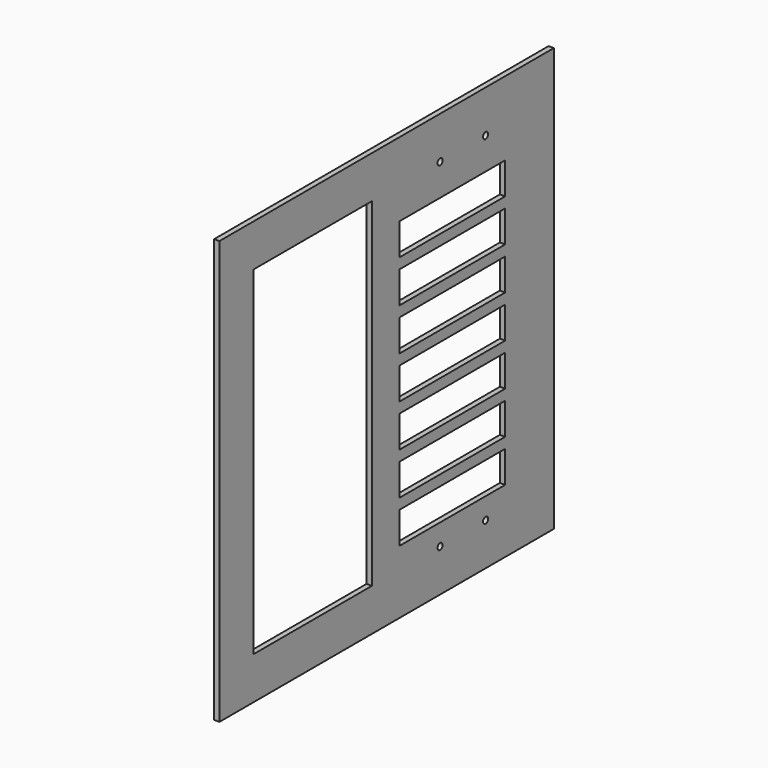
from build123d import *

# Parameters (mm, degrees)
SKETCH001_W              = 501.65
SKETCH001_H              = 508
SKETCH001_R              = 3.81
SKETCH001_W_2            = 177.8
SKETCH001_H_2            = 406.4
PAD007_DEPTH             = 6.35
SKETCH005_W              = 158.75
SKETCH005_H              = 38.1
POCKET_DEPTH             = 6.35
LINEARPATTERN_COUNT      = 7
LINEARPATTERN_PITCH      = 50.8
CLONE070_PLACEMENT_ANGLE = 180


with BuildPart() as part:
    # Sketch001 → Pad007 (new body)
    with BuildSketch(Plane(origin=(914.4, 1422.4, 914.4), x_dir=(0, 1, 0), z_dir=(-1, 0, 0))):
        Rectangle(SKETCH001_W, SKETCH001_H)
        with Locations((80.16875, 203.2)):
            Circle(SKETCH001_R, mode=Mode.SUBTRACT)
        with Locations((148.43125, 203.2)):
            Circle(SKETCH001_R, mode=Mode.SUBTRACT)
        with Locations((80.16875, -203.2)):
            Circle(SKETCH001_R, mode=Mode.SUBTRACT)
        with Locations((148.43125, -203.2)):
            Circle(SKETCH001_R, mode=Mode.SUBTRACT)
        with Locations((-111.125, 0)):
            Rectangle(SKETCH001_W_2, SKETCH001_H_2, mode=Mode.SUBTRACT)
    extrude(amount=PAD007_DEPTH)

    # Sketch005 → Pocket (cut)
    with BuildSketch(Plane(origin=(914.4, 1422.4, 914.4), x_dir=(0, 1, 0), z_dir=(1, 0, 0))):
        with Locations((98.425, 158.75)):
            Rectangle(SKETCH005_W, SKETCH005_H)
    pocket = extrude(amount=-POCKET_DEPTH, mode=Mode.SUBTRACT)

    # LinearPattern: Pocket ×7
    with Locations(*[(0, 0, -i * LINEARPATTERN_PITCH) for i in range(1, LINEARPATTERN_COUNT)]):
        add(pocket, mode=Mode.SUBTRACT)


with BuildPart() as part_1:
    # Clone070 placement: moved
    add(part.part.moved(Location((1650.1999, -1171.575, 1168.4))).rotate(Axis((1650.1999, -1171.575, 1168.4), (0, -1, 0)), CLONE070_PLACEMENT_ANGLE))


solid = part_1.part
